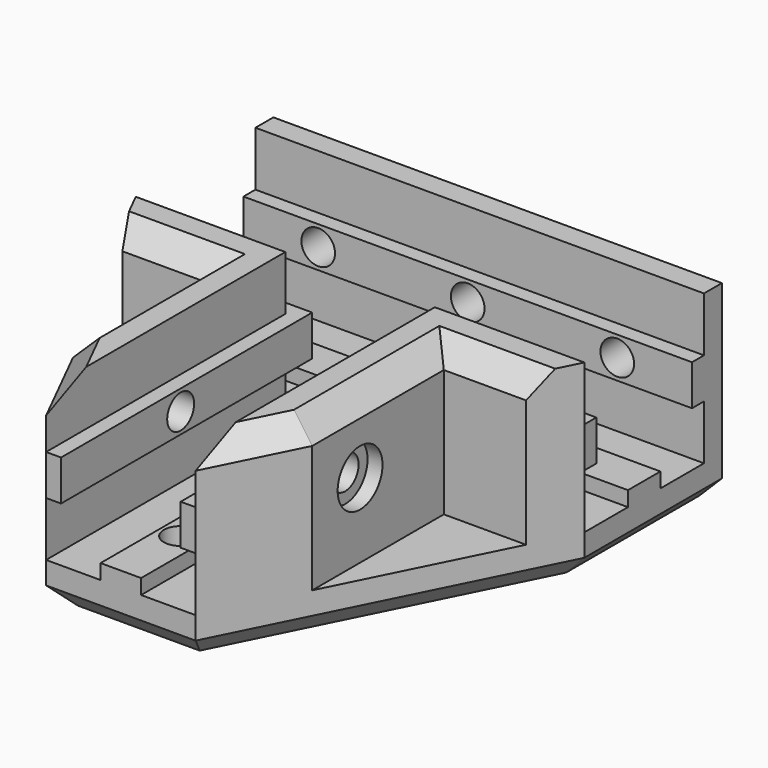
from build123d import *

# Parameters (mm, degrees)
F1_DEPTH  = 6
F2_W      = 20
F2_H      = 5.42
F3_DEPTH  = 2
F4_R      = 2.25
F5_DEPTH  = 8.001
F6_R      = 3.75
F7_DEPTH  = 2
F8_W      = 60
F8_H      = 6
F9_DEPTH  = 6
F10_W     = 60
F10_H     = 6
F11_DEPTH = 20
F13_DEPTH = 60
F15_DEPTH = 20
F16_W     = 42
F16_H     = 5.42
F17_DEPTH = 2
F19_DEPTH = 20
F20_W     = 42
F20_H     = 5.42
F21_DEPTH = 2
F22_R     = 2.25
F23_DEPTH = 46.001
F24_R     = 2.25
F25_DEPTH = 8
F26_R     = 3.75
F27_DEPTH = 2
F28_R     = 3.75
F29_DEPTH = 2
F30_R     = 3.75
F31_DEPTH = 2
F32_SIZE  = 3


with BuildPart() as f1:
    # F0 (on Top) → F1 (new body)
    with BuildSketch(Plane.XY):
        Polygon((-30, 0), (-10, 0), (-10, -40), (0, -40), (10, -40), (10, 0), (30, 0), (30, 20), (0, 20), (-30, 20), align=None)
    extrude(amount=F1_DEPTH)

    # F2 (on face) → F3 (join)
    with BuildSketch(Plane.XY.offset(6)):
        Polygon((2.71, 0), (0, 0), (-2.71, 0), (-2.71, -40), (2.71, -40), align=None)
        Polygon((10, 12.71), (10, 10), (10, 7.29), (30, 7.29), (30, 12.71), align=None)
        with Locations((-20, 10)):
            Rectangle(F2_W, F2_H)
    extrude(amount=F3_DEPTH)

    # F4 (on face) → F5 (cut, through all)
    with BuildSketch(Plane(origin=(0, 0, 0), x_dir=(1, 0, 0), z_dir=(0, 0, -1))):
        with Locations((-20, -10)):
            Circle(F4_R)
        with Locations((0, 10)):
            Circle(F4_R)
        with Locations((0, 30)):
            Circle(F4_R)
        with Locations((20.741304, -10)):
            Circle(F4_R)
        with Locations((0, -10)):
            Circle(F4_R)
    extrude(amount=-F5_DEPTH, mode=Mode.SUBTRACT)

    # F6 (on face) → F7 (cut)
    with BuildSketch(Plane(origin=(0, 0, 0), x_dir=(1, 0, 0), z_dir=(0, 0, -1))):
        with Locations((0, 30)):
            Circle(F6_R)
        with Locations((0, 10)):
            Circle(F6_R)
        with Locations((20.741304, -10)):
            Circle(F6_R)
        with Locations((-20, -10)):
            Circle(F6_R)
        with Locations((0, -10)):
            Circle(F6_R)
    extrude(amount=-F7_DEPTH, mode=Mode.SUBTRACT)

    # F8 (on face) → F9 (join)
    with BuildSketch(Plane(origin=(0, 0, 0), x_dir=(1, 0, 0), z_dir=(0, 0, -1))):
        Polygon((-10, 0), (-10, 40), (-30, 0), align=None)
        Polygon((30, 0), (10, 40), (10, 0), align=None)
        with Locations((0, -23)):
            Rectangle(F8_W, F8_H)
    extrude(amount=-F9_DEPTH)

    # F10 (on face) → F11 (join)
    with BuildSketch(Plane.XY.offset(6)):
        Polygon((30, 0), (10, 0), (10, -40), (16, -28), (16, -6), (27, -6), align=None)
        Polygon((-10, -40), (-10, 0), (-30, 0), (-27, -6), (-16, -6), (-16, -28), align=None)
        with Locations((0, 23)):
            Rectangle(F10_W, F10_H)
    extrude(amount=F11_DEPTH)

    # F12 (on face) → F13 (join)
    with BuildSketch(Plane.YZ.offset(30)):
        Polygon((20, 13.29), (20, 16), (20, 18.71), (18, 18.71), (18, 13.29), align=None)
    extrude(amount=-F13_DEPTH)

    # F14 (on face) → F15 (join)
    with BuildSketch(Plane.YZ.offset(-10)):
        Polygon((0, 18.71), (0, 16), (0, 13.29), (2, 13.29), (2, 18.71), align=None)
    extrude(amount=-F15_DEPTH)

    # F16 (on face) → F17 (join)
    with BuildSketch(Plane.YZ.offset(-10)):
        with Locations((-19, 16)):
            Rectangle(F16_W, F16_H)
    extrude(amount=F17_DEPTH)

    # F18 (on face) → F19 (join)
    with BuildSketch(Plane(origin=(10, 0, 0), x_dir=(0, -1, 0), z_dir=(-1, 0, 0))):
        Polygon((0, 13.29), (0, 16), (0, 18.71), (-2, 18.71), (-2, 13.29), align=None)
    extrude(amount=-F19_DEPTH)

    # F20 (on face) → F21 (join)
    with BuildSketch(Plane(origin=(10, 0, 0), x_dir=(0, -1, 0), z_dir=(-1, 0, 0))):
        with Locations((19, 16)):
            Rectangle(F20_W, F20_H)
    extrude(amount=F21_DEPTH)

    # F22 (on face) → F23 (cut, through all)
    with BuildSketch(Plane(origin=(-16, 0, 0), x_dir=(0, -1, 0), z_dir=(-1, 0, 0))):
        with Locations((20, 16)):
            Circle(F22_R)
    extrude(amount=-F23_DEPTH, mode=Mode.SUBTRACT)

    # F24 (on face) → F25 (cut, through all)
    with BuildSketch(Plane(origin=(0, 26, 0), x_dir=(-1, 0, 0), z_dir=(0, 1, 0))):
        with Locations((-20, 16)):
            Circle(F24_R)
        with Locations((0, 16)):
            Circle(F24_R)
        with Locations((20, 16)):
            Circle(F24_R)
    extrude(amount=-F25_DEPTH, mode=Mode.SUBTRACT)

    # F26 (on face) → F27 (cut)
    with BuildSketch(Plane.YZ.offset(16)):
        with Locations((-20, 16)):
            Circle(F26_R)
    extrude(amount=-F27_DEPTH, mode=Mode.SUBTRACT)

    # F28 (on face) → F29 (cut)
    with BuildSketch(Plane(origin=(-16, 0, 0), x_dir=(0, -1, 0), z_dir=(-1, 0, 0))):
        with Locations((20, 16)):
            Circle(F28_R)
    extrude(amount=-F29_DEPTH, mode=Mode.SUBTRACT)

    # F30 (on face) → F31 (cut)
    with BuildSketch(Plane(origin=(0, 26, 0), x_dir=(-1, 0, 0), z_dir=(0, 1, 0))):
        with Locations((-20, 16)):
            Circle(F30_R)
        with Locations((0, 16)):
            Circle(F30_R)
        with Locations((20, 16)):
            Circle(F30_R)
    extrude(amount=-F31_DEPTH, mode=Mode.SUBTRACT)

    # F32
    f32_edges = [f1.edges().sort_by_distance(p)[0] for p in [
        (0, 26, 0),
        (30, 26, 13),
        (-30, 26, 13),
        (-30, 13, 0),
        (30, 13, 0),
        (20, -20, 0),
        (-20, -20, 0),
        (0, -40, 0),
        (0, 26, 26),
        (-21.5, -6, 26),
        (-16, -17, 26),
        (16, -17, 26),
        (21.5, -6, 26),
        (-13, -34, 26),
        (13, -34, 26),
    ]]
    chamfer(f32_edges, length=F32_SIZE)


solid = f1.part
